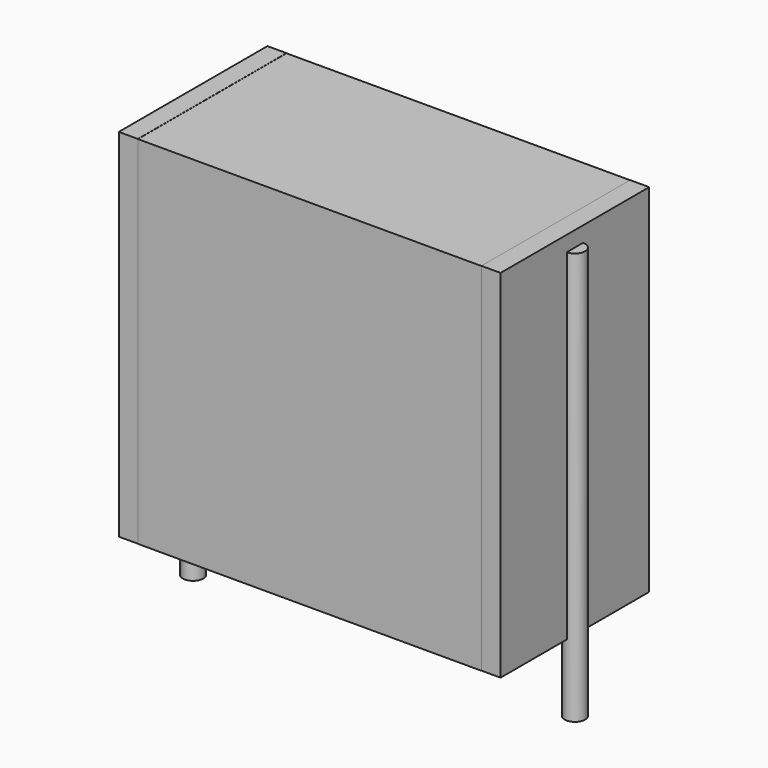
from build123d import *

# Parameters (mm, degrees)
SKETCH_W          = 13.5
SKETCH_H          = 7.3
PAD_DEPTH         = 14
SKETCH001_R       = 0.4
PAD001_DEPTH      = 13
PAD001_DEPTH_BACK = 3.2
SKETCH002_W       = 0.75
SKETCH002_H       = 7.3
PAD002_DEPTH      = 14


with BuildPart() as pad:
    # Sketch → Pad (new body)
    with BuildSketch(Plane.XY.offset(0.1)):
        with Locations((7.5, 0)):
            Rectangle(SKETCH_W, SKETCH_H)
    extrude(amount=PAD_DEPTH)


with BuildPart() as pad001:
    # Sketch001 → Pad001 (new body, two sides)
    with BuildSketch(Plane.XY.offset(0.5)) as pad001_sk:
        Circle(SKETCH001_R)
        with Locations((15, 0)):
            Circle(SKETCH001_R)
    extrude(amount=PAD001_DEPTH)
    extrude(pad001_sk.sketch, amount=-PAD001_DEPTH_BACK)


with BuildPart() as pad002:
    # Sketch002 → Pad002 (new body)
    with BuildSketch(Plane.XY.offset(0.105)):
        with Locations((0.375, 0)):
            Rectangle(SKETCH002_W, SKETCH002_H)
        with Locations((14.625, 0)):
            Rectangle(SKETCH002_W, SKETCH002_H)
    extrude(amount=PAD002_DEPTH)


solid = Compound([pad.part, pad001.part, pad002.part])
